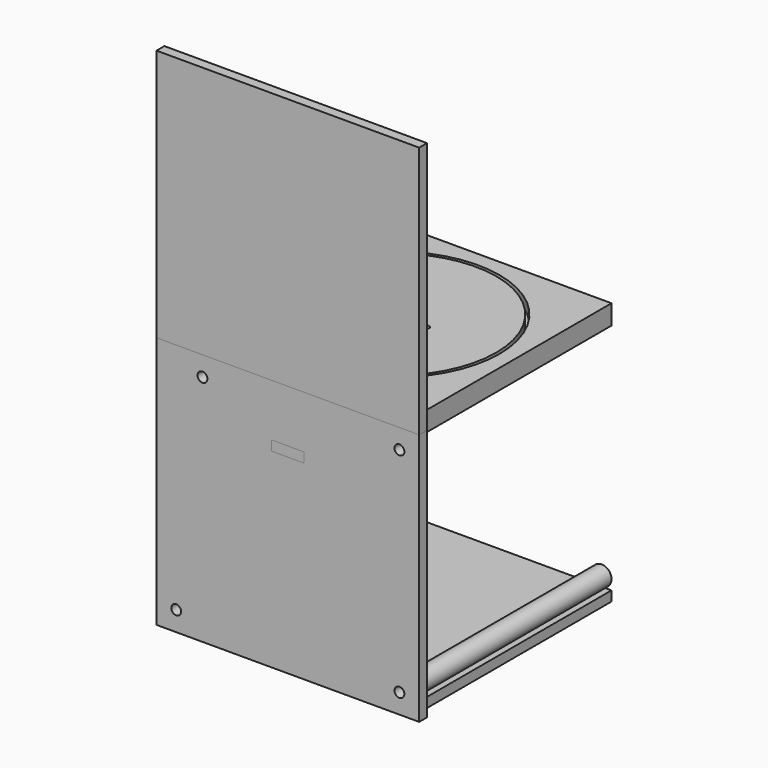
from build123d import *

# Parameters (mm, degrees)
F4_R            = 27.5
F5_DEPTH        = 3
F6_R            = 32.5
F7_DEPTH        = 3
F8_R            = 31.5
F8_R_2          = 0.75
F8_R_3          = 3
F9_DEPTH        = 3
F10_W           = 64
F10_H           = 3
F11_DEPTH       = 3
F12_W           = 74
F12_H           = 74
F13_DEPTH       = 3
F14_W           = 80
F14_H           = 77
F14_R           = 1.5
F14_W_2         = 10
F14_H_2         = 3
F15_DEPTH       = 3
F16_R           = 3
F17_DEPTH       = 74
F19_D           = 3
F19_DEPTH       = 12
F19_CSINK_D     = 5.5
F19_CSINK_ANGLE = 90
F19_TIP         = 0.9012909285
F21_D           = 3
F21_DEPTH       = 12
F21_CSINK_D     = 5.5
F21_CSINK_ANGLE = 90
F21_TIP         = 0.9012909285
F23_DEPTH       = 3
F25_DEPTH       = 3
F26_W           = 80
F26_H           = 77
F27_DEPTH       = 3


with BuildPart() as f5:
    # F4 (on Top) → F5 (new body)
    with BuildSketch(Plane.XY):
        Polygon((37, -37), (37, 37), (-37, 37), (-37, -27), (-31, -27), (-31, -37), align=None)
        Circle(F4_R, mode=Mode.SUBTRACT)
    extrude(amount=F5_DEPTH)

    # F6 (on face) → F7 (join)
    with BuildSketch(Plane.XY.offset(3)):
        Polygon((-31, -37), (37, -37), (37, 37), (-37, 37), (-37, -27), (-31, -27), align=None)
        Circle(F6_R, mode=Mode.SUBTRACT)
    extrude(amount=F7_DEPTH)


with BuildPart() as f9:
    # F8 (on face) → F9 (new body)
    with BuildSketch(Plane.XY.offset(3)):
        Circle(F8_R)
        with Locations((-10.4, 0)):
            Circle(F8_R_2, mode=Mode.SUBTRACT)
        Circle(F8_R_3, mode=Mode.SUBTRACT)
        with Locations((10.4, 0)):
            Circle(F8_R_2, mode=Mode.SUBTRACT)
    extrude(amount=F9_DEPTH)


with BuildPart() as f11:
    # F10 (on face) → F11 (new body)
    with BuildSketch(Plane(origin=(-37, 0, 0), x_dir=(0, -1, 0), z_dir=(-1, 0, 0))):
        Polygon((37, 3), (27, 3), (27, 0), (-37, 0), (-37, -74), (37, -74), align=None)
        with Locations((-5, 1.5)):
            Rectangle(F10_W, F10_H)
    extrude(amount=F11_DEPTH)


with BuildPart() as f13:
    # F12 (on face) → F13 (new body)
    with BuildSketch(Plane(origin=(0, 0, -74), x_dir=(1, 0, 0), z_dir=(0, 0, -1))):
        Rectangle(F12_W, F12_H)
    extrude(amount=-F13_DEPTH)


with BuildPart() as f15:
    # F14 (on face) → F15 (new body)
    with BuildSketch(Plane.XZ.offset(37)):
        with Locations((0, -35.5)):
            Rectangle(F14_W, F14_H)
        with Locations((-34, -68)):
            Circle(F14_R, mode=Mode.SUBTRACT)
        with Locations((34, -68)):
            Circle(F14_R, mode=Mode.SUBTRACT)
        with Locations((-26, -3)):
            Circle(F14_R, mode=Mode.SUBTRACT)
        with Locations((0, -14.5)):
            Rectangle(F14_W_2, F14_H_2, mode=Mode.SUBTRACT)
        with Locations((34, -3)):
            Circle(F14_R, mode=Mode.SUBTRACT)
    extrude(amount=F15_DEPTH)


with BuildPart() as f17:
    # F16 (on face) → F17 (new body)
    with BuildSketch(Plane(origin=(0, -37, 0), x_dir=(-1, 0, 0), z_dir=(0, 1, 0))):
        with Locations((-34, -68)):
            Circle(F16_R)
    extrude(amount=F17_DEPTH)

    # F19
    with Locations(Plane(origin=(0, 37, 0), x_dir=(-1, 0, 0), z_dir=(0, 1, 0))):
        with Locations((-34, -68)):
            CounterSinkHole(F19_D / 2, F19_CSINK_D / 2, depth=F19_DEPTH, counter_sink_angle=F19_CSINK_ANGLE)
            with Locations((0, 0, -(F19_DEPTH + F19_TIP / 2))):  # 118° drill point
                Cone(0, F19_D / 2, F19_TIP, mode=Mode.SUBTRACT)

    # F21
    with Locations(Plane.XZ.offset(37)):
        with Locations((34, -68)):
            CounterSinkHole(F21_D / 2, F21_CSINK_D / 2, depth=F21_DEPTH, counter_sink_angle=F21_CSINK_ANGLE)
            with Locations((0, 0, -(F21_DEPTH + F21_TIP / 2))):  # 118° drill point
                Cone(0, F21_D / 2, F21_TIP, mode=Mode.SUBTRACT)


with BuildPart() as f23:
    # F22 (on face) → F23 (new body)
    with BuildSketch(Plane.XY.offset(-16)):
        Polygon((-5, -40), (5, -40), (5, -37), (10, -37), (10, 37), (5, 37), (5, 40), (-5, 40), (-5, 37), (-10, 37), (-10, -37), (-5, -37), align=None)
        Polygon((-6.2, 16.75), (6.2, 16.75), (6.2, -6.25), (2, -6.25), (2, -9.25), (-2, -9.25), (-2, -6.25), (-6.2, -6.25), align=None, mode=Mode.SUBTRACT)
    extrude(amount=F23_DEPTH)


with BuildPart() as f25:
    # F24 (on face) → F25 (new body)
    with BuildSketch(Plane(origin=(-31, 0, 0), x_dir=(0, -1, 0), z_dir=(-1, 0, 0))):
        Polygon((34.6148688495, 16.7903841846), (25.6148688495, 16.7903841846), (25.6148688495, 6.7903841846), (30.1148688495, -3.2096158154), (34.6148688495, -3.2096158154), align=None)
    extrude(amount=F25_DEPTH)


with BuildPart() as f27:
    # F26 (on face) → F27 (new body)
    with BuildSketch(Plane.XZ.offset(37)):
        with Locations((0, 41.5)):
            Rectangle(F26_W, F26_H)
    extrude(amount=F27_DEPTH)


solid = Compound([f5.part, f9.part, f11.part, f13.part, f15.part, f17.part, f23.part, f25.part, f27.part])
